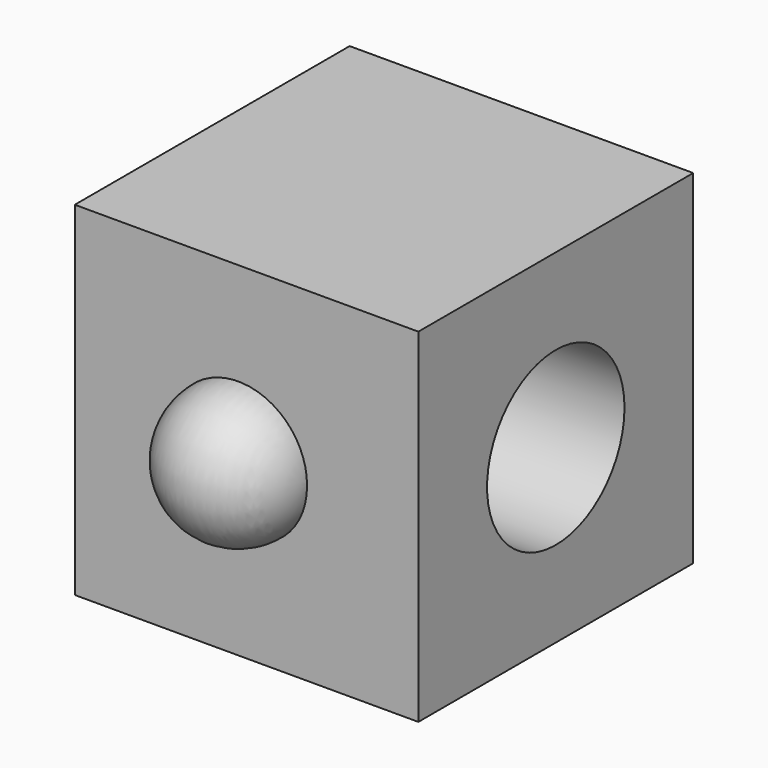
from build123d import *

# Parameters (mm, degrees)
F0_W     = 40
F0_H     = 40
F1_DEPTH = 40
F2_R     = 10
F3_DEPTH = 40.001


with BuildPart() as f1:
    # F0 (on Front) → F1 (new body)
    with BuildSketch(Plane.XZ):
        with Locations((20, 20)):
            Rectangle(F0_W, F0_H)
    extrude(amount=F1_DEPTH)

    # F2 (on face) → F3 (cut, through all)
    with BuildSketch(Plane.YZ.offset(40)):
        with Locations((-20, 20)):
            Circle(F2_R)
    extrude(amount=-F3_DEPTH, mode=Mode.SUBTRACT)

    # F4 (on face) → F5 (revolve)
    with BuildSketch(Plane.XZ.offset(40)):
        with BuildLine():
            ThreePointArc((11.028599, 20), (19.033267, 11.917013), (27.037935, 20))
            Line((27.037935, 20), (11.028599, 20))
        make_face()
    revolve(axis=Axis((19.033267, -40, 20), (-1, 0, 0)))


solid = f1.part
